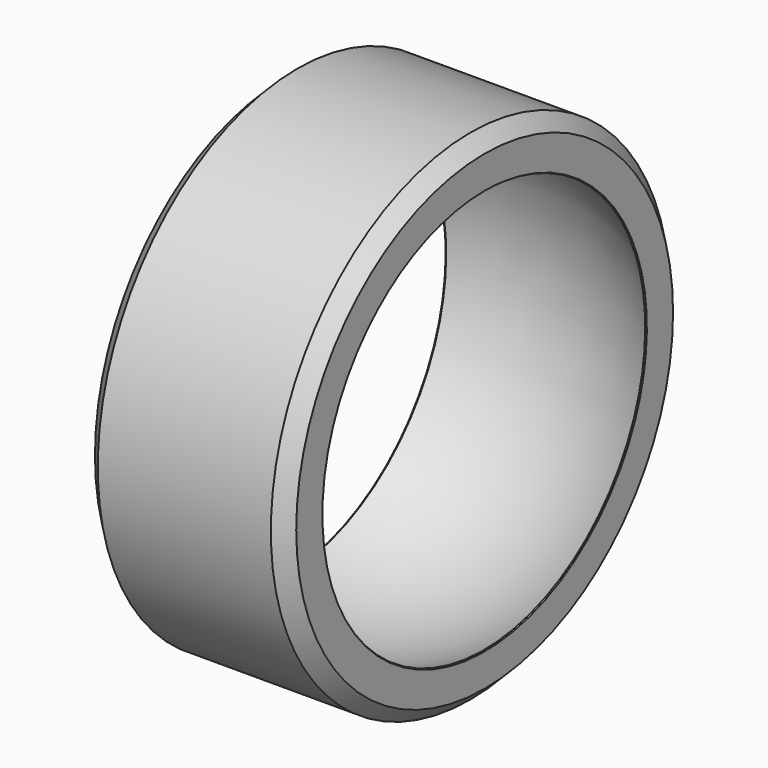
from build123d import *

# Parameters (mm, degrees)
F3_SIZE = 0.1
F4_SIZE = 1.12


with BuildPart() as f2:
    # F0 (on Front) → F2 (revolve)
    with BuildSketch(Plane.XZ):
        with BuildLine():
            Line((8, 19.844), (-8, 19.844))
            Line((-8, 19.844), (-8, 16.024))
            ThreePointArc((-8, 16.024), (0, 17.91324), (8, 16.024))
            Line((8, 16.024), (8, 19.844))
        make_face()
    revolve(axis=Axis((0.055771, 0, 0), (1, 0, 0)))

    # F3
    f3_edges = [f2.edges().sort_by_distance(p)[0] for p in [
        (8, 0, -16.024),
        (-8, 0, -16.024),
    ]]
    chamfer(f3_edges, length=F3_SIZE)

    # F4
    f4_edges = [f2.edges().sort_by_distance(p)[0] for p in [
        (-8, 0, -19.844),
        (8, 0, -19.844),
    ]]
    chamfer(f4_edges, length=F4_SIZE)


solid = f2.part
